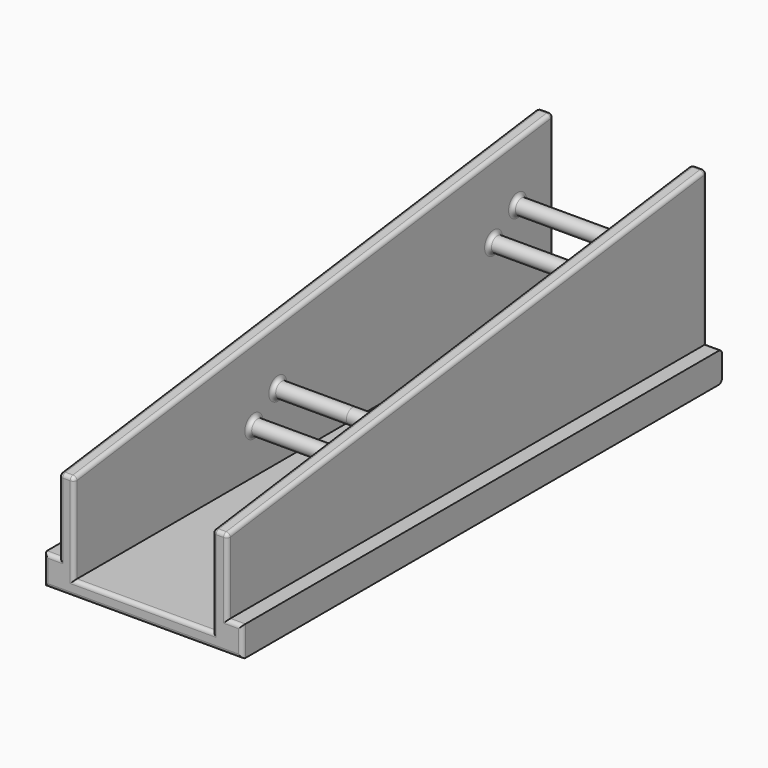
from build123d import *

# Parameters (mm, degrees)
F1_DEPTH = 127
F2_R     = 1.5875
F3_DEPTH = 15.875
F5_DEPTH = 25.4
F6_R     = 0.8128


with BuildPart() as f1:
    # F0 (on Front) → F1 (new body)
    with BuildSketch(Plane.XZ):
        Polygon((13.5128, 50.8), (13.5128, -0.381), (-15.7988, -0.381), (-15.7988, 50.8), (-18.9738, 50.8), (-18.9738, 2.794), (-22.1488, 2.794), (-22.1488, -3.556), (19.8628, -3.556), (19.8628, 2.794), (16.6878, 2.794), (16.6878, 50.8), align=None)
    extrude(amount=-F1_DEPTH)

    # F2 (on Right) → F3 (join, symmetric)
    with BuildSketch(Plane.YZ):
        with Locations((47.625, 9.0994079057)):
            Circle(F2_R)
        with Locations((53.975, 13.5220858492)):
            Circle(F2_R)
        with Locations((111.125, 17.4593415025)):
            Circle(F2_R)
        with Locations((117.475, 21.882019446)):
            Circle(F2_R)
    extrude(amount=F3_DEPTH, both=True)

    # F4 (on Right) → F5 (cut, symmetric)
    with BuildSketch(Plane.YZ):
        Polygon((0, 57.8776258776), (0, 18.669), (128.4480404309, 35.5795053329), (128.4480404309, 57.8776258776), align=None)
    extrude(amount=F5_DEPTH, both=True, mode=Mode.SUBTRACT)

    # F6
    f6_edges = [f1.edges().sort_by_distance(p)[0] for p in [
        (-18.9738, 63.5, 27.028934),
        (-15.7988, 63.5, 27.028934),
        (-15.7988, 0, 9.144),
        (16.6878, 0, 10.7315),
        (16.6878, 63.5, 27.028934),
        (13.5128, 63.5, 27.028934),
        (-1.143, 0, -0.381),
        (-18.9738, 0, 10.7315),
        (13.5128, 0, 9.144),
        (-1.143, 0, -3.556),
        (18.2753, 0, 2.794),
        (19.8628, 0, -0.381),
        (-20.5613, 0, 2.794),
        (-22.1488, 0, -0.381),
        (-15.7988, 46.0375, 9.099408),
        (-15.7988, 52.3875, 13.522086),
        (13.5128, 46.0375, 9.099408),
        (13.5128, 52.3875, 13.522086),
        (13.5128, 109.5375, 17.459342),
        (13.5128, 115.8875, 21.882019),
        (-15.7988, 109.5375, 17.459342),
        (-15.7988, 115.8875, 21.882019),
        (16.6878, 127, 19.091434),
        (18.2753, 127, 2.794),
        (-1.143, 127, -3.556),
        (-22.1488, 127, -0.381),
        (-20.5613, 127, 2.794),
        (-18.9738, 127, 19.091434),
        (-15.7988, 127, 17.503934),
        (15.1003, 127, 35.388867),
        (-17.3863, 127, 35.388867),
        (-1.143, 127, -0.381),
        (15.1003, 0, 18.669),
        (-17.3863, 0, 18.669),
        (13.5128, 127, 17.503934),
    ]]
    fillet(f6_edges, radius=F6_R)


solid = f1.part
